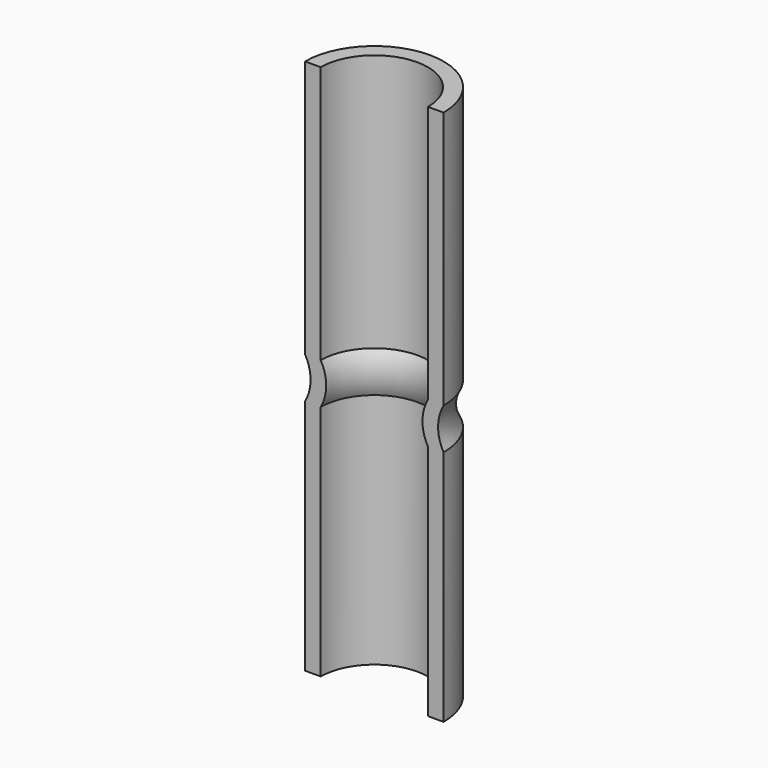
from build123d import *

# Parameters (mm, degrees)
F1_ANGLE = 180


with BuildPart() as f1:
    # F0 (on Front) → F1 (revolve)
    with BuildSketch(Plane.XZ):
        with BuildLine():
            Line((-39.666668, 64.479168), (-43.458339, 64.479168))
            Line((-43.458339, 64.479168), (-43.458339, 1.979168))
            ThreePointArc((-43.458339, 1.979168), (-42.118593, -3.020832), (-43.458339, -8.020832))
            Line((-43.458339, -8.020832), (-43.458339, -65.520832))
            Line((-43.458339, -65.520832), (-39.666668, -65.520832))
            Line((-39.666668, -65.520832), (-39.666668, -8.020832))
            ThreePointArc((-39.666668, -8.020832), (-38.326922, -3.020832), (-39.666668, 1.979168))
            Line((-39.666668, 1.979168), (-39.666668, 64.479168))
        make_face()
    revolve(axis=Axis((-26.666668, 0, -1.708331), (0, 0, -1)), revolution_arc=F1_ANGLE)


solid = f1.part
